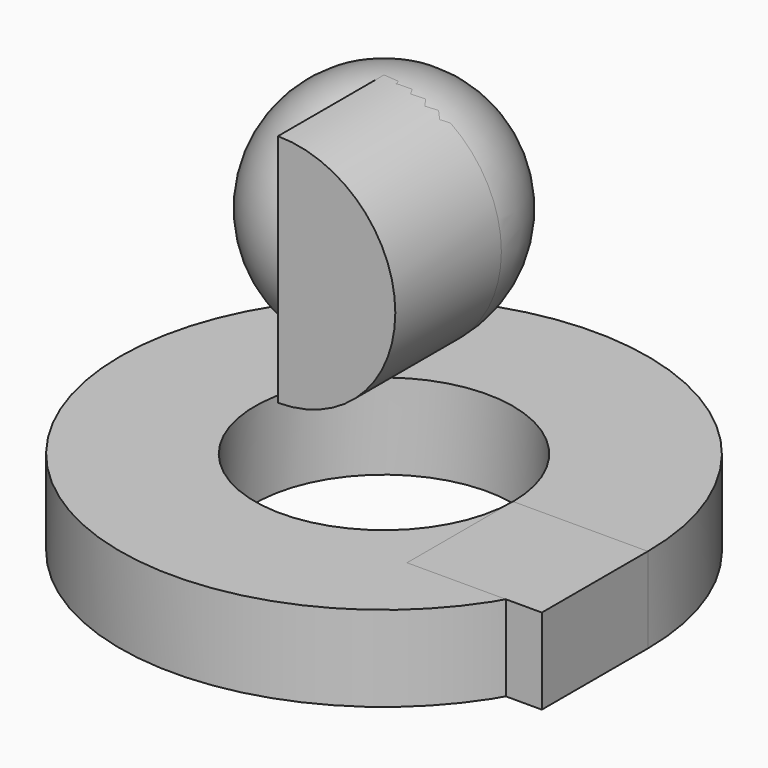
from build123d import *

# Parameters (mm, degrees)
F0_W     = 25.423225
F0_H     = 16.12205
F2_DEPTH = 25


with BuildPart() as f1:
    # F0 (on Front) → F1 (revolve)
    with BuildSketch(Plane.XZ):
        with BuildLine():
            Line((0, 22.133641), (0, -22.133641))
            ThreePointArc((0, -22.133641), (22.133641, 0), (0, 22.133641))
        make_face()
        with Locations((37.049706, -48.831202)):
            Rectangle(F0_W, F0_H)
    revolve(axis=Axis((0, 0, -2.325295), (0, 0, -1)))


with BuildPart() as f2:
    # F0 (on Front) → F2 (new body)
    with BuildSketch(Plane.XZ):
        with BuildLine():
            Line((0, 22.133641), (0, -22.133641))
            ThreePointArc((0, -22.133641), (22.133641, 0), (0, 22.133641))
        make_face()
        with Locations((37.049706, -48.831202)):
            Rectangle(F0_W, F0_H)
    extrude(amount=F2_DEPTH)


solid = Compound([f1.part, f2.part])
